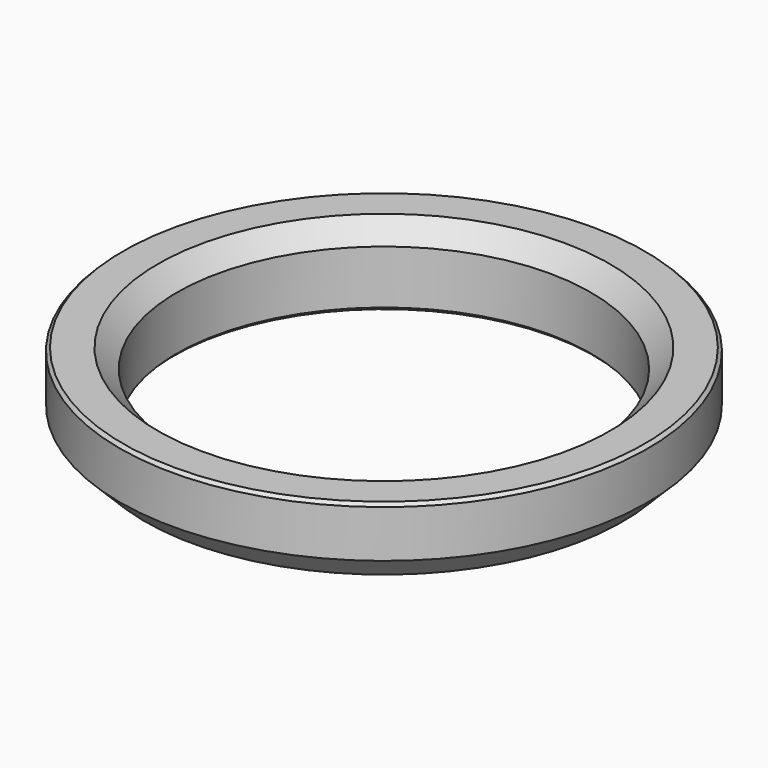
from build123d import *

# Parameters (mm, degrees)
F2_SIZE = 0.25
F3_SIZE = 0.25


with BuildPart() as f1:
    # F0 (on Right) → F1 (revolve)
    with BuildSketch(Plane.YZ):
        Polygon((17.9, 6), (16.4, 4.5), (16.4, 0), (18.9, 0), (20.9, 2), (20.9, 6), align=None)
    revolve(axis=Axis((0, 0, 6.363279), (0, 0, 1)))

    # F2
    f2_edges = [f1.edges().sort_by_distance(p)[0] for p in [
        (0, -20.9, 6),
    ]]
    chamfer(f2_edges, length=F2_SIZE)

    # F3
    f3_edges = [f1.edges().sort_by_distance(p)[0] for p in [
        (0, -16.4, 0),
    ]]
    chamfer(f3_edges, length=F3_SIZE)


solid = f1.part
